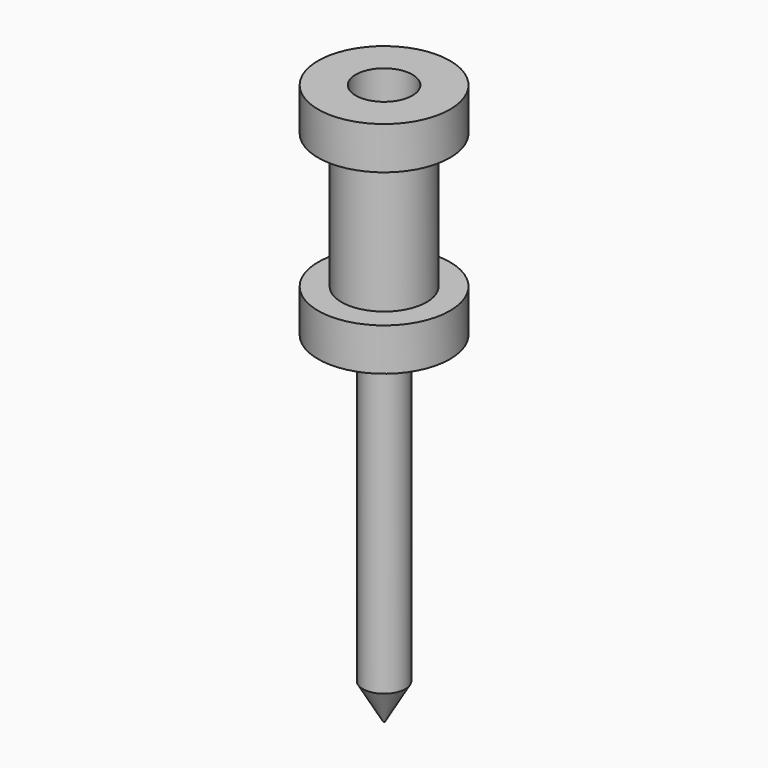
from build123d import *

# Parameters (mm, degrees)
F0_R      = 0.381
F1_DEPTH  = 6.096
F2_SIZE2  = 0.3666174209
F2_SIZE   = 0.635
F0_R_2    = 1.1811
F1_FACE_R = 0.381
F3_DEPTH  = 0.762
F4_R      = 0.762
F4_R_2    = 0.508
F5_DEPTH  = 2.413
F6_R      = 1.1811
F6_R_2    = 0.762
F6_R_3    = 0.508
F7_DEPTH  = 0.762


with BuildPart() as f1:
    # F0 (on Top) → F1 (new body)
    with BuildSketch(Plane.XY):
        Circle(F0_R)
    extrude(amount=-F1_DEPTH)

    # F2
    f2_edges = [f1.edges().sort_by_distance(p)[0] for p in [
        (-0.381, 0, -6.096),
    ]]
    f2_side = f1.faces().sort_by_distance((-0.381, 0, -3.048))[0]
    chamfer(f2_edges, length=F2_SIZE, length2=F2_SIZE2, reference=f2_side)

    # F0 (on Top) + F1_face (on face) → F3 (join)
    with BuildSketch(Plane.XY):
        Circle(F0_R_2)
        Circle(F0_R, mode=Mode.SUBTRACT)
    with BuildSketch(Plane.XY):
        Circle(F1_FACE_R)
    extrude(amount=F3_DEPTH)

    # F4 (on face) → F5 (join)
    with BuildSketch(Plane.XY.offset(0.762)):
        Circle(F4_R)
        Circle(F4_R_2, mode=Mode.SUBTRACT)
    extrude(amount=F5_DEPTH)

    # F6 (on face) → F7 (join)
    with BuildSketch(Plane.XY.offset(3.175)):
        Circle(F6_R)
        Circle(F6_R_2, mode=Mode.SUBTRACT)
        Circle(F6_R_2)
        Circle(F6_R_3, mode=Mode.SUBTRACT)
    extrude(amount=F7_DEPTH)


solid = f1.part
